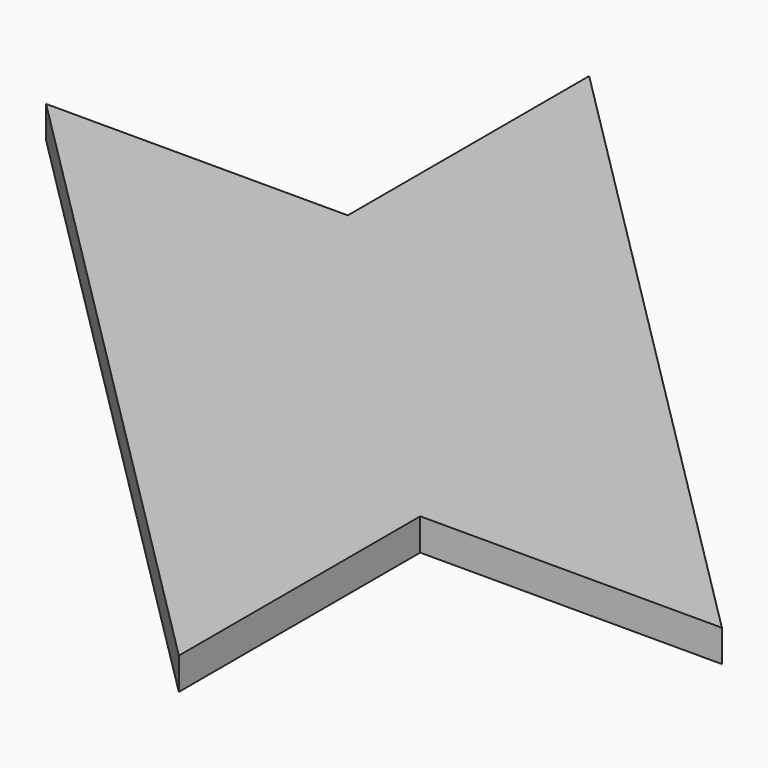
from build123d import *

# Parameters (mm, degrees)
F1_DEPTH = 19.05
F2_DEPTH = 19.05


with BuildPart() as f1:
    # F0 (on Top) → F1 (new body)
    with BuildSketch(Plane.XY):
        Polygon((-107.763073, 107.763073), (-287.368196, 107.763073), (107.763073, -287.368196), (107.763073, -107.763073), align=None)
    extrude(amount=F1_DEPTH)

    # F0 (on Top) → F2 (join)
    with BuildSketch(Plane.XY):
        Polygon((-107.763073, 287.368196), (-107.763073, 107.763073), (107.763073, -107.763073), (287.368196, -107.763073), align=None)
    extrude(amount=F2_DEPTH)


solid = f1.part
